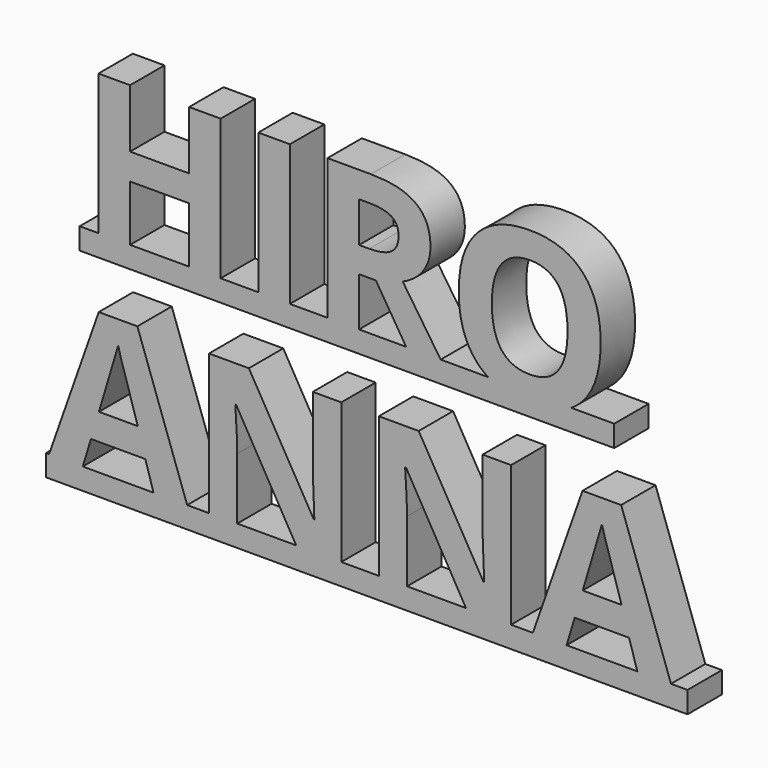
from build123d import *

# Parameters (mm, degrees)
F0_W     = 7.3600260417
F0_H     = 2
F0_W_2   = 7.3372395833
F0_H_2   = 32.7037760417
F1_DEPTH = 10
F2_W     = 6.5776909722
F2_H     = 2
F3_DEPTH = 10


with BuildPart() as f1:
    # F0 (on Front) → F1 (new body)
    with BuildSketch(Plane.XZ):
        Polygon((-45.5729096715, 34.7037760417), (-45.5729096715, 2), (-38.2128836299, 2), (-38.2128836299, 14.9782986111), (-24.4726492549, 14.9782986111), (-24.4726492549, 2), (-17.1354096715, 2), (-17.1354096715, 34.7037760417), (-24.4726492549, 34.7037760417), (-24.4726492549, 21.1002604167), (-38.2128836299, 21.1002604167), (-38.2128836299, 34.7037760417), align=None)
        with Locations((-41.8928966507, 1)):
            Rectangle(F0_W, F0_H)
        with BuildLine():
            Line((-45.5729096715, 2), (-49.9403141854, 2))
            Line((-49.9403141854, 2), (-49.9403141854, -3))
            Line((-49.9403141854, -3), (74.4585573424, -3))
            Line((74.4585573424, -3), (74.4585573424, 2))
            Line((74.4585573424, 2), (64.4747883987, 2))
            add(Edge.make_bspline(
                [(64.4747883987, 2), (60.6217212829, -0.478515625), (54.7862483146, -0.478515625)],
                knots=[0.2683031445, 0.2683031445, 0.2683031445, 1, 1, 1], degree=2))
            add(Edge.make_bspline(
                [(54.7862483146, -0.478515625), (48.9507753462, -0.478515625), (45.0977082305, 2)],
                knots=[0, 0, 0, 0.7316968555, 0.7316968555, 0.7316968555], degree=2))
            Line((45.0977082305, 2), (34.0683879111, 2))
            add(Edge.make_bspline(
                [(34.0683879111, 2), (34.8978609429, 0.7827176635), (35.4405451896, 0)],
                knots=[0.770999175, 0.770999175, 0.770999175, 1, 1, 1], degree=2))
            Line((35.4405451896, 0), (27.2753976201, 0))
            Line((27.2753976201, 0), (26.0306742887, 2))
            Line((26.0306742887, 2), (15.0770469257, 2))
            Line((15.0770469257, 2), (15.0770469257, 0))
            Line((15.0770469257, 0), (7.717020884, 0))
            Line((7.717020884, 0), (7.717020884, 2))
            Line((7.717020884, 2), (-1.0177881438, 2))
            Line((-1.0177881438, 2), (-1.0177881438, 0))
            Line((-1.0177881438, 0), (-8.3778141854, 0))
            Line((-8.3778141854, 0), (-8.3778141854, 2))
            Line((-8.3778141854, 2), (-17.1354096715, 2))
            Line((-17.1354096715, 2), (-17.1354096715, 0))
            Line((-17.1354096715, 0), (-24.4726492549, 0))
            Line((-24.4726492549, 0), (-24.4726492549, 2))
            Line((-24.4726492549, 2), (-38.2128836299, 2))
            Line((-38.2128836299, 2), (-38.2128836299, 0))
            Line((-38.2128836299, 0), (-45.5729096715, 0))
            Line((-45.5729096715, 0), (-45.5729096715, 2))
        make_face()
        with Locations((-20.8040294632, 1)):
            Rectangle(F0_W_2, F0_H)
        with Locations((-4.6978011646, 18.3518880208)):
            Rectangle(F0_W, F0_H_2)
        with Locations((-4.6978011646, 1)):
            Rectangle(F0_W, F0_H)
        with BuildLine():
            Line((26.0306742887, 2), (34.0683879111, 2))
            add(Edge.make_bspline(
                [(25.2322118562, 15.1226128472), (31.2757210146, 6.0983419044), (34.0683879111, 2)],
                knots=[0, 0, 0, 0.770999175, 0.770999175, 0.770999175], degree=2))
            add(Edge.make_bspline(
                [(30.0059748771, 18.8595920139), (28.3235747035, 16.474609375), (25.2322118562, 15.1226128472)],
                knots=[0, 0, 0, 1, 1, 1], degree=2))
            add(Edge.make_bspline(
                [(31.6883750507, 24.3055555556), (31.6883750507, 21.2445746528), (30.0059748771, 18.8595920139)],
                knots=[0, 0, 0, 1, 1, 1], degree=2))
            add(Edge.make_bspline(
                [(28.2969905021, 32.12890625), (31.6883750507, 29.5540364583), (31.6883750507, 24.3055555556)],
                knots=[0, 0, 0, 1, 1, 1], degree=2))
            add(Edge.make_bspline(
                [(17.8266128979, 34.7037760417), (24.9056059535, 34.7037760417), (28.2969905021, 32.12890625)],
                knots=[0, 0, 0, 1, 1, 1], degree=2))
            Line((17.8266128979, 34.7037760417), (7.717020884, 34.7037760417))
            Line((7.717020884, 34.7037760417), (7.717020884, 2))
            Line((7.717020884, 2), (15.0770469257, 2))
            Line((15.0770469257, 2), (15.0770469257, 13.3148871528))
            Line((15.0770469257, 13.3148871528), (18.9887222729, 13.3148871528))
            Line((18.9887222729, 13.3148871528), (26.0306742887, 2))
        make_face()
        with BuildLine():
            Line((17.4468385924, 19.3001302083), (15.0770469257, 19.3001302083))
            Line((15.0770469257, 19.3001302083), (15.0770469257, 28.6729600694))
            Line((15.0770469257, 28.6729600694), (17.3101198424, 28.6729600694))
            add(Edge.make_bspline(
                [(22.5623984882, 27.6285807292), (20.8648073424, 28.6729600694), (17.3101198424, 28.6729600694)],
                knots=[0, 0, 0, 1, 1, 1], degree=2))
            add(Edge.make_bspline(
                [(24.259989634, 24.1156684028), (24.259989634, 26.5842013889), (22.5623984882, 27.6285807292)],
                knots=[0, 0, 0, 1, 1, 1], degree=2))
            add(Edge.make_bspline(
                [(22.6003759187, 20.4622395833), (24.259989634, 21.6243489583), (24.259989634, 24.1156684028)],
                knots=[0, 0, 0, 1, 1, 1], degree=2))
            add(Edge.make_bspline(
                [(17.4468385924, 19.3001302083), (20.9407622035, 19.3001302083), (22.6003759187, 20.4622395833)],
                knots=[0, 0, 0, 1, 1, 1], degree=2))
        make_face(mode=Mode.SUBTRACT)
        with Locations((11.3970339049, 1)):
            Rectangle(F0_W, F0_H)
        with BuildLine():
            add(Edge.make_bspline(
                [(34.0683879111, 2), (34.8978609429, 0.7827176635), (35.4405451896, 0)],
                knots=[0.770999175, 0.770999175, 0.770999175, 1, 1, 1], degree=2))
            Line((34.0683879111, 2), (26.0306742887, 2))
            Line((26.0306742887, 2), (27.2753976201, 0))
            Line((27.2753976201, 0), (35.4405451896, 0))
        make_face()
        with BuildLine():
            Line((45.0977082305, 2), (64.4747883987, 2))
            add(Edge.make_bspline(
                [(67.0339696687, 4.1509331597), (65.8876549643, 2.9088374933), (64.4747883987, 2)],
                knots=[0, 0, 0, 0.2683031445, 0.2683031445, 0.2683031445], degree=2))
            add(Edge.make_bspline(
                [(71.3064306062, 17.4012586806), (71.3064306062, 8.7803819444), (67.0339696687, 4.1509331597)],
                knots=[0, 0, 0, 1, 1, 1], degree=2))
            add(Edge.make_bspline(
                [(67.0681493562, 30.6439887153), (71.3064306062, 26.0373263889), (71.3064306062, 17.4012586806)],
                knots=[0, 0, 0, 1, 1, 1], degree=2))
            add(Edge.make_bspline(
                [(54.8318212312, 35.2506510417), (62.8298681062, 35.2506510417), (67.0681493562, 30.6439887153)],
                knots=[0, 0, 0, 1, 1, 1], degree=2))
            add(Edge.make_bspline(
                [(42.5499201896, 30.6819661458), (46.8337743562, 35.2506510417), (54.8318212312, 35.2506510417)],
                knots=[0, 0, 0, 1, 1, 1], degree=2))
            add(Edge.make_bspline(
                [(38.2660660229, 17.4468315972), (38.2660660229, 26.11328125), (42.5499201896, 30.6819661458)],
                knots=[0, 0, 0, 1, 1, 1], degree=2))
            add(Edge.make_bspline(
                [(42.5385269604, 4.1509331597), (38.2660660229, 8.7803819444), (38.2660660229, 17.4468315972)],
                knots=[0, 0, 0, 1, 1, 1], degree=2))
            add(Edge.make_bspline(
                [(45.0977082305, 2), (43.6848416649, 2.9088374933), (42.5385269604, 4.1509331597)],
                knots=[0.7316968555, 0.7316968555, 0.7316968555, 1, 1, 1], degree=2))
        make_face()
        with BuildLine():
            add(Edge.make_bspline(
                [(45.9830799118, 17.4012586806), (45.9830799118, 11.5831163194), (48.1895686271, 8.6398654514)],
                knots=[0, 0, 0, 1, 1, 1], degree=2))
            add(Edge.make_bspline(
                [(48.2123550854, 26.1664496528), (45.9830799118, 23.2118055556), (45.9830799118, 17.4012586806)],
                knots=[0, 0, 0, 1, 1, 1], degree=2))
            add(Edge.make_bspline(
                [(54.8318212312, 29.12109375), (50.441630259, 29.12109375), (48.2123550854, 26.1664496528)],
                knots=[0, 0, 0, 1, 1, 1], degree=2))
            add(Edge.make_bspline(
                [(63.5894167174, 17.4012586806), (63.5894167174, 29.12109375), (54.8318212312, 29.12109375)],
                knots=[0, 0, 0, 1, 1, 1], degree=2))
            add(Edge.make_bspline(
                [(54.7862483146, 5.6966145833), (63.5894167174, 5.6966145833), (63.5894167174, 17.4012586806)],
                knots=[0, 0, 0, 1, 1, 1], degree=2))
            add(Edge.make_bspline(
                [(48.1895686271, 8.6398654514), (50.3960573424, 5.6966145833), (54.7862483146, 5.6966145833)],
                knots=[0, 0, 0, 1, 1, 1], degree=2))
        make_face(mode=Mode.SUBTRACT)
        with BuildLine():
            add(Edge.make_bspline(
                [(64.4747883987, 2), (60.6217212829, -0.478515625), (54.7862483146, -0.478515625)],
                knots=[0.2683031445, 0.2683031445, 0.2683031445, 1, 1, 1], degree=2))
            Line((64.4747883987, 2), (45.0977082305, 2))
            add(Edge.make_bspline(
                [(54.7862483146, -0.478515625), (48.9507753462, -0.478515625), (45.0977082305, 2)],
                knots=[0, 0, 0, 0.7316968555, 0.7316968555, 0.7316968555], degree=2))
        make_face()
    extrude(amount=F1_DEPTH)


with BuildPart() as f3:
    # F2 (on Front) → F3 (new body)
    with BuildSketch(Plane.XZ):
        Polygon((-45.5068036232, -14.1426085562), (-57.0551840979, -46.9906988339), (-49.2201793381, -46.9906988339), (-47.3145293176, -40.7268099451), (-34.6604494565, -40.7268099451), (-32.7547994361, -46.9906988339), (-24.922410195, -46.9906988339), (-36.5137480676, -14.1426085562), align=None)
        with BuildLine():
            add(Edge.make_bspline(
                [(-36.4226022343, -34.5592752228), (-39.9089303593, -23.3331467506), (-40.3494685538, -21.8596224451)],
                knots=[0, 0, 0, 1, 1, 1], degree=2))
            Line((-36.4226022343, -34.5592752228), (-45.4612307065, -34.5592752228))
            add(Edge.make_bspline(
                [(-40.979893901, -19.5354036951), (-41.7622289704, -22.5735981395), (-45.4612307065, -34.5592752228)],
                knots=[0, 0, 0, 1, 1, 1], degree=2))
            add(Edge.make_bspline(
                [(-40.3494685538, -21.8596224451), (-40.7900067482, -20.3860981395), (-40.979893901, -19.5354036951)],
                knots=[0, 0, 0, 1, 1, 1], degree=2))
        make_face(mode=Mode.SUBTRACT)
        with BuildLine():
            Line((-19.8492515399, -14.2869227923), (-19.8492515399, -46.9906988339))
            Line((-19.8492515399, -46.9906988339), (-13.2715605676, -46.9906988339))
            Line((-13.2715605676, -46.9906988339), (-13.2715605676, -32.6604036951))
            add(Edge.make_bspline(
                [(-13.7272897343, -22.7406988339), (-13.2715605676, -29.6905686256), (-13.2715605676, -32.6604036951)],
                knots=[0, 0, 0, 1, 1, 1], degree=2))
            Line((-13.7272897343, -22.7406988339), (-13.5146161232, -22.7406988339))
            Line((-13.5146161232, -22.7406988339), (0.4347473027, -46.9906988339))
            Line((0.4347473027, -46.9906988339), (10.9352536685, -46.9906988339))
            Line((10.9352536685, -46.9906988339), (10.9352536685, -14.2869227923))
            Line((10.9352536685, -14.2869227923), (4.3119897796, -14.2869227923))
            Line((4.3119897796, -14.2869227923), (4.3119897796, -30.7159592506))
            add(Edge.make_bspline(
                [(4.6689776268, -40.2786762645), (4.3119897796, -33.5110981395), (4.3119897796, -30.7159592506)],
                knots=[0, 0, 0, 1, 1, 1], degree=2))
            Line((4.6689776268, -40.2786762645), (4.5018769324, -40.2786762645))
            Line((4.5018769324, -40.2786762645), (-10.5675675121, -14.2869227923))
            Line((-10.5675675121, -14.2869227923), (-19.8492515399, -14.2869227923))
        make_face()
        with BuildLine():
            Line((19.6700626962, -14.2869227923), (19.6700626962, -46.9906988339))
            Line((19.6700626962, -46.9906988339), (26.2477536685, -46.9906988339))
            Line((26.2477536685, -46.9906988339), (26.2477536685, -32.6604036951))
            add(Edge.make_bspline(
                [(25.7920245018, -22.7406988339), (26.2477536685, -29.6905686256), (26.2477536685, -32.6604036951)],
                knots=[0, 0, 0, 1, 1, 1], degree=2))
            Line((25.7920245018, -22.7406988339), (26.0046981129, -22.7406988339))
            Line((26.0046981129, -22.7406988339), (39.9540615388, -46.9906988339))
            Line((39.9540615388, -46.9906988339), (50.4545679046, -46.9906988339))
            Line((50.4545679046, -46.9906988339), (50.4545679046, -14.2869227923))
            Line((50.4545679046, -14.2869227923), (43.8313040157, -14.2869227923))
            Line((43.8313040157, -14.2869227923), (43.8313040157, -30.7159592506))
            add(Edge.make_bspline(
                [(44.1882918629, -40.2786762645), (43.8313040157, -33.5110981395), (43.8313040157, -30.7159592506)],
                knots=[0, 0, 0, 1, 1, 1], degree=2))
            Line((44.1882918629, -40.2786762645), (44.0211911685, -40.2786762645))
            Line((44.0211911685, -40.2786762645), (28.951746724, -14.2869227923))
            Line((28.951746724, -14.2869227923), (19.6700626962, -14.2869227923))
        make_face()
        Polygon((79.8254957028, -46.9906988339), (87.6578849439, -46.9906988339), (76.0665470712, -14.1426085562), (67.0734915157, -14.1426085562), (55.525111041, -46.9906988339), (63.3601158008, -46.9906988339), (65.2657658212, -40.7268099451), (77.9198456824, -40.7268099451), align=None)
        with BuildLine():
            add(Edge.make_bspline(
                [(76.1576929046, -34.5592752228), (72.6713647796, -23.3331467506), (72.2308265851, -21.8596224451)],
                knots=[0, 0, 0, 1, 1, 1], degree=2))
            Line((76.1576929046, -34.5592752228), (67.1190644324, -34.5592752228))
            add(Edge.make_bspline(
                [(71.6004012379, -19.5354036951), (70.8180661685, -22.5735981395), (67.1190644324, -34.5592752228)],
                knots=[0, 0, 0, 1, 1, 1], degree=2))
            add(Edge.make_bspline(
                [(72.2308265851, -21.8596224451), (71.7902883907, -20.3860981395), (71.6004012379, -19.5354036951)],
                knots=[0, 0, 0, 1, 1, 1], degree=2))
        make_face(mode=Mode.SUBTRACT)
        Polygon((88.3636390851, -48.9906988339), (87.6578849439, -46.9906988339), (79.8254957028, -46.9906988339), (80.4339515851, -48.9906988339), align=None)
        Polygon((-49.8286352204, -48.9906988339), (-57.7583227204, -48.9906988339), (-57.7583227204, -51.9906988339), (91.5157658212, -51.9906988339), (91.5157658212, -46.9906988339), (87.6578849439, -46.9906988339), (88.3636390851, -48.9906988339), (80.4339515851, -48.9906988339), (79.8254957028, -46.9906988339), (63.3601158008, -46.9906988339), (62.7516599185, -48.9906988339), (54.8219724185, -48.9906988339), (55.525111041, -46.9906988339), (50.4545679046, -46.9906988339), (50.4545679046, -48.9906988339), (41.1045245018, -48.9906988339), (39.9540615388, -46.9906988339), (26.2477536685, -46.9906988339), (26.2477536685, -48.9906988339), (19.6700626962, -48.9906988339), (19.6700626962, -46.9906988339), (10.9352536685, -46.9906988339), (10.9352536685, -48.9906988339), (1.5852102657, -48.9906988339), (0.4347473027, -46.9906988339), (-13.2715605676, -46.9906988339), (-13.2715605676, -48.9906988339), (-19.8492515399, -48.9906988339), (-19.8492515399, -46.9906988339), (-24.922410195, -46.9906988339), (-24.2166560538, -48.9906988339), (-32.1463435538, -48.9906988339), (-32.7547994361, -46.9906988339), (-49.2201793381, -46.9906988339), align=None)
        Polygon((62.7516599185, -48.9906988339), (63.3601158008, -46.9906988339), (55.525111041, -46.9906988339), (54.8219724185, -48.9906988339), align=None)
        Polygon((50.4545679046, -48.9906988339), (50.4545679046, -46.9906988339), (39.9540615388, -46.9906988339), (41.1045245018, -48.9906988339), align=None)
        with Locations((22.9589081824, -47.9906988339)):
            Rectangle(F2_W, F2_H)
        Polygon((10.9352536685, -46.9906988339), (0.4347473027, -46.9906988339), (1.5852102657, -48.9906988339), (10.9352536685, -48.9906988339), align=None)
        with Locations((-16.5604060538, -47.9906988339)):
            Rectangle(F2_W, F2_H)
        Polygon((-24.922410195, -46.9906988339), (-32.7547994361, -46.9906988339), (-32.1463435538, -48.9906988339), (-24.2166560538, -48.9906988339), align=None)
        Polygon((-49.2201793381, -46.9906988339), (-57.0551840979, -46.9906988339), (-57.7583227204, -48.9906988339), (-49.8286352204, -48.9906988339), align=None)
        Polygon((-57.0551840979, -46.9906988339), (-57.7583227204, -46.9906988339), (-57.7583227204, -48.9906988339), align=None)
    extrude(amount=F3_DEPTH)


solid = Compound([f1.part, f3.part])
